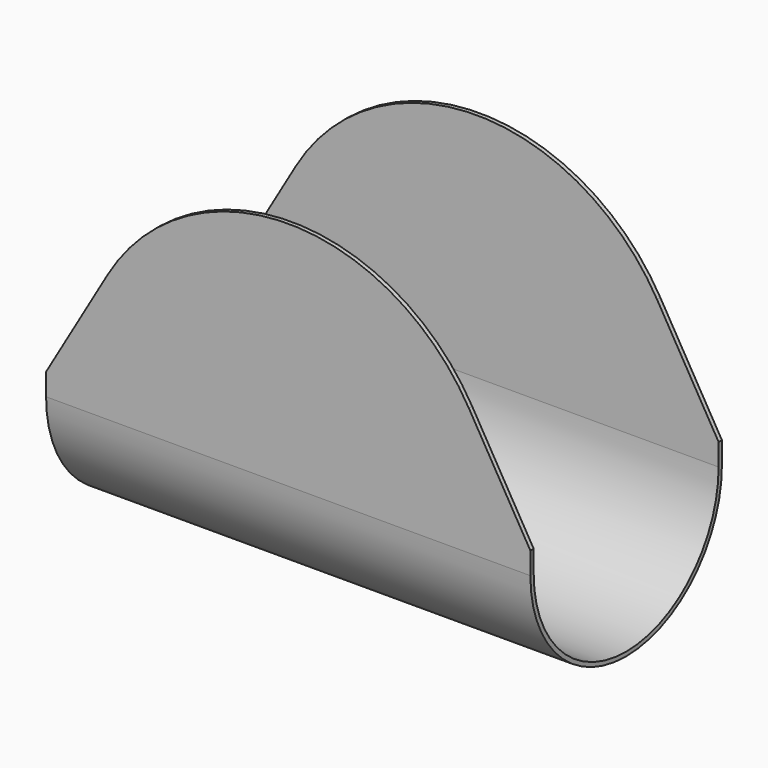
from build123d import *

# Parameters (mm, degrees)
F1_DEPTH = 279.4
F3_DEPTH = 276.226


with BuildPart() as f1:
    # F0 (on Right) → F1 (new body, symmetric)
    with BuildSketch(Plane.YZ):
        with BuildLine():
            Line((133.35, 406.4), (133.35, 0))
            ThreePointArc((133.35, 0), (0, -133.35), (-133.35, 0))
            Line((-133.35, 0), (-133.35, 406.4))
            Line((-133.35, 406.4), (-138.1125, 406.4))
            Line((-138.1125, 406.4), (-138.1125, 0))
            ThreePointArc((-138.1125, 0), (0, -138.1125), (138.1125, 0))
            Line((138.1125, 0), (138.1125, 406.4))
            Line((138.1125, 406.4), (133.35, 406.4))
        make_face()
    extrude(amount=F1_DEPTH, both=True)

    # F2 (on face) → F3 (cut, through all)
    with BuildSketch(Plane(origin=(0, 138.1125, 0), x_dir=(-1, 0, 0), z_dir=(0, 1, 0))):
        with BuildLine():
            ThreePointArc((-208.395455, 147.043021), (0, 266.7), (208.395455, 147.043021))
            Line((208.395455, 147.043021), (279.4, 25.4))
            Line((279.4, 25.4), (279.4, 406.4))
            Line((279.4, 406.4), (-279.4, 406.4))
            Line((-279.4, 406.4), (-279.4, 25.4))
            Line((-279.4, 25.4), (-208.395455, 147.043021))
        make_face()
    extrude(amount=-F3_DEPTH, mode=Mode.SUBTRACT)


solid = f1.part
